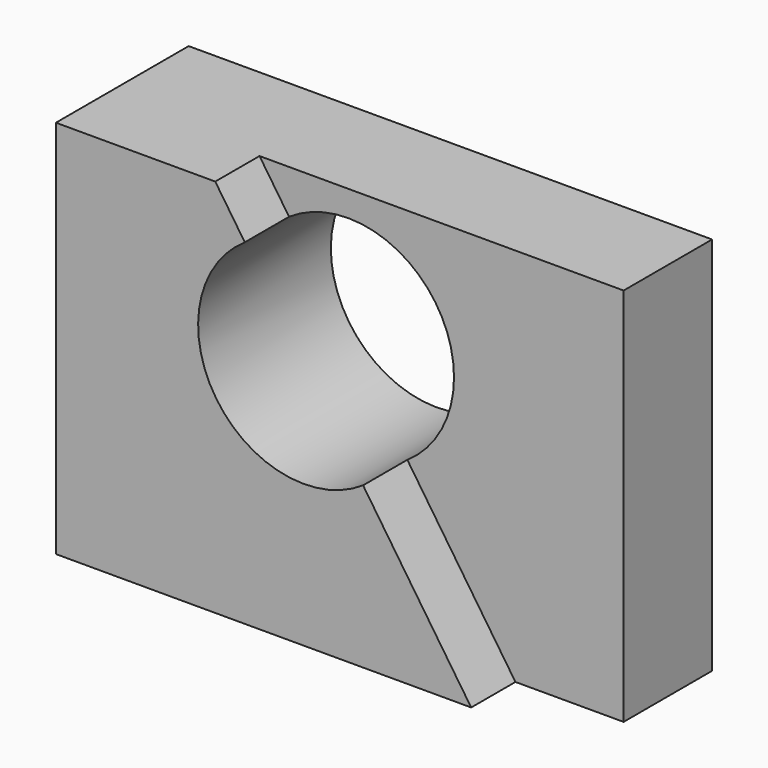
from build123d import *

# Parameters (mm, degrees)
F1_DEPTH = 38.1
F2_DEPTH = 25.4


with BuildPart() as f1:
    # F0 (on Front) → F1 (new body)
    with BuildSketch(Plane.XZ):
        with BuildLine():
            Line((-16.724718, 33.538792), (-23.510048, 43.607347))
            Line((-23.510048, 43.607347), (-60.102299, 43.607347))
            Line((-60.102299, 43.607347), (-60.102299, -43.607347))
            Line((-60.102299, -43.607347), (35.265073, -43.607347))
            Line((35.265073, -43.607347), (10.436524, -6.764985))
            ThreePointArc((10.436524, -6.764985), (-23.295985, -0.193718), (-16.724718, 33.538792))
        make_face()
    extrude(amount=F1_DEPTH)

    # F0 (on Front) → F2 (join)
    with BuildSketch(Plane.XZ):
        with BuildLine():
            Line((60.102299, -43.607347), (60.102299, 43.607347))
            Line((60.102299, 43.607347), (-23.510048, 43.607347))
            Line((-23.510048, 43.607347), (-16.724718, 33.538792))
            ThreePointArc((-16.724718, 33.538792), (8.268859, 34.840955), (21.156765, 13.386903))
            ThreePointArc((21.156765, 13.386903), (18.309955, 1.973948), (10.436524, -6.764985))
            Line((10.436524, -6.764985), (35.265073, -43.607347))
            Line((35.265073, -43.607347), (60.102299, -43.607347))
        make_face()
    extrude(amount=F2_DEPTH)


solid = f1.part
